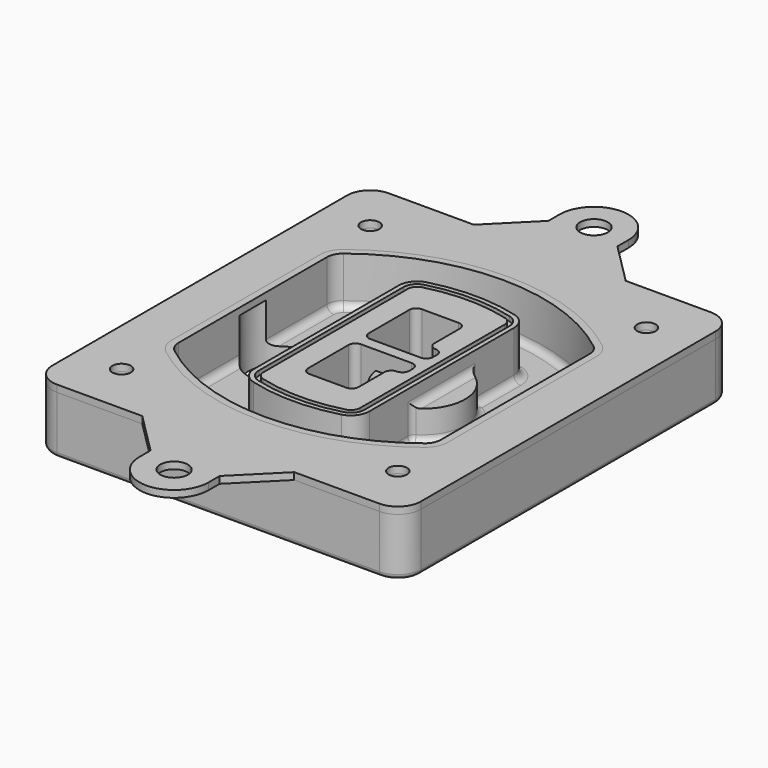
from build123d import *

# Parameters (mm, degrees)
F0_R      = 4
F1_DEPTH  = 25
F2_DEPTH  = 3
F3_DEPTH  = 18
F5_DEPTH  = 21
F6_DEPTH  = 2
F8_DEPTH  = 20
F9_DEPTH  = 16
F10_DEPTH = 25
F7_R      = 6
F7_R_2    = 4
F11_DEPTH = 6
F13_DEPTH = 9
F14_R     = 3
F15_R     = 2
F16_R     = 6
F16_R_2   = 4
F17_DEPTH = 3


with BuildPart() as f1:
    # F0 (on Top) → F1 (new body)
    with BuildSketch(Plane.XY):
        with BuildLine():
            ThreePointArc((-80, -80), (-77.0710678119, -87.0710678119), (-70, -90))
            Line((-70, -90), (70, -90))
            ThreePointArc((70, -90), (77.0710678119, -87.0710678119), (80, -80))
            Line((80, -80), (80, 80))
            ThreePointArc((80, 80), (77.0710678119, 87.0710678119), (70, 90))
            Line((70, 90), (-70, 90))
            ThreePointArc((-70, 90), (-77.0710678119, 87.0710678119), (-80, 80))
            Line((-80, 80), (-80, -80))
        make_face()
        with Locations((-60, -67.5)):
            Circle(F0_R, mode=Mode.SUBTRACT)
        with Locations((60, -67.5)):
            Circle(F0_R, mode=Mode.SUBTRACT)
        with Locations((-60, 67.5)):
            Circle(F0_R, mode=Mode.SUBTRACT)
        with BuildLine():
            ThreePointArc((-64, 40.2934422872), (-62.5820384798, 46.4328484224), (-58.6153846154, 51.3286200352))
            ThreePointArc((-58.6153846154, 51.3286200352), (0, 71.5), (58.6153846154, 51.3286200352))
            ThreePointArc((58.6153846154, 51.3286200352), (62.5820384798, 46.4328484224), (64, 40.2934422872))
            Line((64, 40.2934422872), (64, -40.2934422872))
            ThreePointArc((64, -40.2934422872), (62.5820384798, -46.4328484224), (58.6153846154, -51.3286200352))
            ThreePointArc((58.6153846154, -51.3286200352), (0, -71.5), (-58.6153846154, -51.3286200352))
            ThreePointArc((-58.6153846154, -51.3286200352), (-62.5820384798, -46.4328484224), (-64, -40.2934422872))
            Line((-64, -40.2934422872), (-64, 40.2934422872))
        make_face(mode=Mode.SUBTRACT)
        with Locations((60, 67.5)):
            Circle(F0_R, mode=Mode.SUBTRACT)
        with BuildLine():
            ThreePointArc((58.6153846154, 51.3286200352), (0, 71.5), (-58.6153846154, 51.3286200352))
            ThreePointArc((-58.6153846154, 51.3286200352), (-62.5820384798, 46.4328484224), (-64, 40.2934422872))
            Line((-64, 40.2934422872), (-64, -40.2934422872))
            ThreePointArc((-64, -40.2934422872), (-62.5820384798, -46.4328484224), (-58.6153846154, -51.3286200352))
            ThreePointArc((-58.6153846154, -51.3286200352), (0, -71.5), (58.6153846154, -51.3286200352))
            ThreePointArc((58.6153846154, -51.3286200352), (62.5820384798, -46.4328484224), (64, -40.2934422872))
            Line((64, -40.2934422872), (64, 40.2934422872))
            ThreePointArc((64, 40.2934422872), (62.5820384798, 46.4328484224), (58.6153846154, 51.3286200352))
        make_face()
        with BuildLine():
            Line((-60, -40.2934422872), (-60, 40.2934422872))
            ThreePointArc((-60, 40.2934422872), (-58.9871703427, 44.6787323838), (-56.1538461538, 48.1757121072))
            ThreePointArc((-56.1538461538, 48.1757121072), (0, 67.5), (56.1538461538, 48.1757121072))
            ThreePointArc((56.1538461538, 48.1757121072), (58.9871703427, 44.6787323838), (60, 40.2934422872))
            Line((60, 40.2934422872), (60, -40.2934422872))
            ThreePointArc((60, -40.2934422872), (58.9871703427, -44.6787323838), (56.1538461538, -48.1757121072))
            ThreePointArc((56.1538461538, -48.1757121072), (0, -67.5), (-56.1538461538, -48.1757121072))
            ThreePointArc((-56.1538461538, -48.1757121072), (-58.9871703427, -44.6787323838), (-60, -40.2934422872))
        make_face(mode=Mode.SUBTRACT)
        with BuildLine():
            ThreePointArc((-56.1538461538, 48.1757121072), (-58.9871703427, 44.6787323838), (-60, 40.2934422872))
            Line((-60, 40.2934422872), (-60, -40.2934422872))
            ThreePointArc((-60, -40.2934422872), (-58.9871703427, -44.6787323838), (-56.1538461538, -48.1757121072))
            ThreePointArc((-56.1538461538, -48.1757121072), (0, -67.5), (56.1538461538, -48.1757121072))
            ThreePointArc((56.1538461538, -48.1757121072), (58.9871703427, -44.6787323838), (60, -40.2934422872))
            Line((60, -40.2934422872), (60, 40.2934422872))
            ThreePointArc((60, 40.2934422872), (58.9871703427, 44.6787323838), (56.1538461538, 48.1757121072))
            ThreePointArc((56.1538461538, 48.1757121072), (0, 67.5), (-56.1538461538, 48.1757121072))
        make_face()
        with BuildLine():
            ThreePointArc((54.3076923077, 45.8110311612), (56.2910192399, 43.3631453548), (57, 40.2934422872))
            Line((57, 40.2934422872), (57, -40.2934422872))
            ThreePointArc((57, -40.2934422872), (56.2910192399, -43.3631453548), (54.3076923077, -45.8110311612))
            ThreePointArc((54.3076923077, -45.8110311612), (0, -64.5), (-54.3076923077, -45.8110311612))
            ThreePointArc((-54.3076923077, -45.8110311612), (-56.2910192399, -43.3631453548), (-57, -40.2934422872))
            Line((-57, -40.2934422872), (-57, 40.2934422872))
            ThreePointArc((-57, 40.2934422872), (-56.2910192399, 43.3631453548), (-54.3076923077, 45.8110311612))
            ThreePointArc((-54.3076923077, 45.8110311612), (0, 64.5), (54.3076923077, 45.8110311612))
        make_face(mode=Mode.SUBTRACT)
        with BuildLine():
            Line((57, -40.2934422872), (57, 40.2934422872))
            ThreePointArc((57, 40.2934422872), (56.2910192399, 43.3631453548), (54.3076923077, 45.8110311612))
            ThreePointArc((54.3076923077, 45.8110311612), (0, 64.5), (-54.3076923077, 45.8110311612))
            ThreePointArc((-54.3076923077, 45.8110311612), (-56.2910192399, 43.3631453548), (-57, 40.2934422872))
            Line((-57, 40.2934422872), (-57, -40.2934422872))
            ThreePointArc((-57, -40.2934422872), (-56.2910192399, -43.3631453548), (-54.3076923077, -45.8110311612))
            ThreePointArc((-54.3076923077, -45.8110311612), (0, -64.5), (54.3076923077, -45.8110311612))
            ThreePointArc((54.3076923077, -45.8110311612), (56.2910192399, -43.3631453548), (57, -40.2934422872))
        make_face()
    extrude(amount=-F1_DEPTH)

    # F0 (on Top) → F2 (join)
    with BuildSketch(Plane.XY):
        with BuildLine():
            ThreePointArc((-56.1538461538, 48.1757121072), (-58.9871703427, 44.6787323838), (-60, 40.2934422872))
            Line((-60, 40.2934422872), (-60, -40.2934422872))
            ThreePointArc((-60, -40.2934422872), (-58.9871703427, -44.6787323838), (-56.1538461538, -48.1757121072))
            ThreePointArc((-56.1538461538, -48.1757121072), (0, -67.5), (56.1538461538, -48.1757121072))
            ThreePointArc((56.1538461538, -48.1757121072), (58.9871703427, -44.6787323838), (60, -40.2934422872))
            Line((60, -40.2934422872), (60, 40.2934422872))
            ThreePointArc((60, 40.2934422872), (58.9871703427, 44.6787323838), (56.1538461538, 48.1757121072))
            ThreePointArc((56.1538461538, 48.1757121072), (0, 67.5), (-56.1538461538, 48.1757121072))
        make_face()
        with BuildLine():
            ThreePointArc((54.3076923077, 45.8110311612), (56.2910192399, 43.3631453548), (57, 40.2934422872))
            Line((57, 40.2934422872), (57, -40.2934422872))
            ThreePointArc((57, -40.2934422872), (56.2910192399, -43.3631453548), (54.3076923077, -45.8110311612))
            ThreePointArc((54.3076923077, -45.8110311612), (0, -64.5), (-54.3076923077, -45.8110311612))
            ThreePointArc((-54.3076923077, -45.8110311612), (-56.2910192399, -43.3631453548), (-57, -40.2934422872))
            Line((-57, -40.2934422872), (-57, 40.2934422872))
            ThreePointArc((-57, 40.2934422872), (-56.2910192399, 43.3631453548), (-54.3076923077, 45.8110311612))
            ThreePointArc((-54.3076923077, 45.8110311612), (0, 64.5), (54.3076923077, 45.8110311612))
        make_face(mode=Mode.SUBTRACT)
    extrude(amount=F2_DEPTH)

    # F0 (on Top) → F3 (cut)
    with BuildSketch(Plane.XY):
        with BuildLine():
            Line((57, -40.2934422872), (57, 40.2934422872))
            ThreePointArc((57, 40.2934422872), (56.2910192399, 43.3631453548), (54.3076923077, 45.8110311612))
            ThreePointArc((54.3076923077, 45.8110311612), (0, 64.5), (-54.3076923077, 45.8110311612))
            ThreePointArc((-54.3076923077, 45.8110311612), (-56.2910192399, 43.3631453548), (-57, 40.2934422872))
            Line((-57, 40.2934422872), (-57, -40.2934422872))
            ThreePointArc((-57, -40.2934422872), (-56.2910192399, -43.3631453548), (-54.3076923077, -45.8110311612))
            ThreePointArc((-54.3076923077, -45.8110311612), (0, -64.5), (54.3076923077, -45.8110311612))
            ThreePointArc((54.3076923077, -45.8110311612), (56.2910192399, -43.3631453548), (57, -40.2934422872))
        make_face()
    extrude(amount=-F3_DEPTH, mode=Mode.SUBTRACT)

    # F4 (on face) → F5 (join, through all)
    with BuildSketch(Plane.XY.offset(3)):
        with BuildLine():
            ThreePointArc((-25, -39.2465276821), (-23.3511545998, -44.1109737193), (-19.0842911877, -46.9702398883))
            ThreePointArc((-19.0842911877, -46.9702398883), (0, -49.5), (19.0842911877, -46.9702398883))
            ThreePointArc((19.0842911877, -46.9702398883), (23.3511545998, -44.1109737193), (25, -39.2465276821))
            Line((25, -39.2465276821), (25, 39.2465276821))
            ThreePointArc((25, 39.2465276821), (23.3511545998, 44.1109737193), (19.0842911877, 46.9702398883))
            ThreePointArc((19.0842911877, 46.9702398883), (0, 49.5), (-19.0842911877, 46.9702398883))
            ThreePointArc((-19.0842911877, 46.9702398883), (-23.3511545998, 44.1109737193), (-25, 39.2465276821))
            Line((-25, 39.2465276821), (-25, -39.2465276821))
        make_face()
        with BuildLine():
            ThreePointArc((18.5632183908, 45.0393118368), (21.7633659499, 42.89486221), (23, 39.2465276821))
            Line((23, 39.2465276821), (23, -39.2465276821))
            ThreePointArc((23, -39.2465276821), (21.7633659499, -42.89486221), (18.5632183908, -45.0393118368))
            ThreePointArc((18.5632183908, -45.0393118368), (0, -47.5), (-18.5632183908, -45.0393118368))
            ThreePointArc((-18.5632183908, -45.0393118368), (-21.7633659499, -42.89486221), (-23, -39.2465276821))
            Line((-23, -39.2465276821), (-23, 39.2465276821))
            ThreePointArc((-23, 39.2465276821), (-21.7633659499, 42.89486221), (-18.5632183908, 45.0393118368))
            ThreePointArc((-18.5632183908, 45.0393118368), (0, 47.5), (18.5632183908, 45.0393118368))
        make_face(mode=Mode.SUBTRACT)
        with BuildLine():
            Line((23, -39.2465276821), (23, 39.2465276821))
            ThreePointArc((23, 39.2465276821), (21.7633659499, 42.89486221), (18.5632183908, 45.0393118368))
            ThreePointArc((18.5632183908, 45.0393118368), (0, 47.5), (-18.5632183908, 45.0393118368))
            ThreePointArc((-18.5632183908, 45.0393118368), (-21.7633659499, 42.89486221), (-23, 39.2465276821))
            Line((-23, 39.2465276821), (-23, -39.2465276821))
            ThreePointArc((-23, -39.2465276821), (-21.7633659499, -42.89486221), (-18.5632183908, -45.0393118368))
            ThreePointArc((-18.5632183908, -45.0393118368), (0, -47.5), (18.5632183908, -45.0393118368))
            ThreePointArc((18.5632183908, -45.0393118368), (21.7633659499, -42.89486221), (23, -39.2465276821))
        make_face()
        with BuildLine():
            ThreePointArc((18.0421455939, 43.1083837852), (20.1755772999, 41.6787507007), (21, 39.2465276821))
            Line((21, 39.2465276821), (21, -39.2465276821))
            ThreePointArc((21, -39.2465276821), (20.1755772999, -41.6787507007), (18.0421455939, -43.1083837852))
            ThreePointArc((18.0421455939, -43.1083837852), (0, -45.5), (-18.0421455939, -43.1083837852))
            ThreePointArc((-18.0421455939, -43.1083837852), (-20.1755772999, -41.6787507007), (-21, -39.2465276821))
            Line((-21, -39.2465276821), (-21, 39.2465276821))
            ThreePointArc((-21, 39.2465276821), (-20.1755772999, 41.6787507007), (-18.0421455939, 43.1083837852))
            ThreePointArc((-18.0421455939, 43.1083837852), (0, 45.5), (18.0421455939, 43.1083837852))
        make_face(mode=Mode.SUBTRACT)
        with BuildLine():
            Line((21, -39.2465276821), (21, 39.2465276821))
            ThreePointArc((21, 39.2465276821), (20.1755772999, 41.6787507007), (18.0421455939, 43.1083837852))
            ThreePointArc((18.0421455939, 43.1083837852), (0, 45.5), (-18.0421455939, 43.1083837852))
            ThreePointArc((-18.0421455939, 43.1083837852), (-20.1755772999, 41.6787507007), (-21, 39.2465276821))
            Line((-21, 39.2465276821), (-21, -39.2465276821))
            ThreePointArc((-21, -39.2465276821), (-20.1755772999, -41.6787507007), (-18.0421455939, -43.1083837852))
            ThreePointArc((-18.0421455939, -43.1083837852), (0, -45.5), (18.0421455939, -43.1083837852))
            ThreePointArc((18.0421455939, -43.1083837852), (20.1755772999, -41.6787507007), (21, -39.2465276821))
        make_face()
        with BuildLine():
            Line((-8, -2.5), (14, -2.5))
            ThreePointArc((14, -2.5), (16.1213203436, -3.3786796564), (17, -5.5))
            Line((17, -5.5), (17, -7.5))
            ThreePointArc((17, -7.5), (16.1213203436, -9.6213203436), (14, -10.5))
            ThreePointArc((14, -10.5), (11.8786796564, -11.3786796564), (11, -13.5))
            Line((11, -13.5), (11, -27.5))
            ThreePointArc((11, -27.5), (10.1213203436, -29.6213203436), (8, -30.5))
            Line((8, -30.5), (-8, -30.5))
            ThreePointArc((-8, -30.5), (-10.1213203436, -29.6213203436), (-11, -27.5))
            Line((-11, -27.5), (-11, -5.5))
            ThreePointArc((-11, -5.5), (-10.1213203436, -3.3786796564), (-8, -2.5))
        make_face(mode=Mode.SUBTRACT)
        with BuildLine():
            ThreePointArc((-8, 2.5), (-10.1213203436, 3.3786796564), (-11, 5.5))
            Line((-11, 5.5), (-11, 27.5))
            ThreePointArc((-11, 27.5), (-10.1213203436, 29.6213203436), (-8, 30.5))
            Line((-8, 30.5), (8, 30.5))
            ThreePointArc((8, 30.5), (10.1213203436, 29.6213203436), (11, 27.5))
            Line((11, 27.5), (11, 13.5))
            ThreePointArc((11, 13.5), (11.8786796564, 11.3786796564), (14, 10.5))
            ThreePointArc((14, 10.5), (16.1213203436, 9.6213203436), (17, 7.5))
            Line((17, 7.5), (17, 5.5))
            ThreePointArc((17, 5.5), (16.1213203436, 3.3786796564), (14, 2.5))
            Line((14, 2.5), (-8, 2.5))
        make_face(mode=Mode.SUBTRACT)
    extrude(amount=-F5_DEPTH)

    # F4 (on face) → F6 (cut)
    with BuildSketch(Plane.XY.offset(3)):
        with BuildLine():
            Line((23, -39.2465276821), (23, 39.2465276821))
            ThreePointArc((23, 39.2465276821), (21.7633659499, 42.89486221), (18.5632183908, 45.0393118368))
            ThreePointArc((18.5632183908, 45.0393118368), (0, 47.5), (-18.5632183908, 45.0393118368))
            ThreePointArc((-18.5632183908, 45.0393118368), (-21.7633659499, 42.89486221), (-23, 39.2465276821))
            Line((-23, 39.2465276821), (-23, -39.2465276821))
            ThreePointArc((-23, -39.2465276821), (-21.7633659499, -42.89486221), (-18.5632183908, -45.0393118368))
            ThreePointArc((-18.5632183908, -45.0393118368), (0, -47.5), (18.5632183908, -45.0393118368))
            ThreePointArc((18.5632183908, -45.0393118368), (21.7633659499, -42.89486221), (23, -39.2465276821))
        make_face()
        with BuildLine():
            ThreePointArc((18.0421455939, 43.1083837852), (20.1755772999, 41.6787507007), (21, 39.2465276821))
            Line((21, 39.2465276821), (21, -39.2465276821))
            ThreePointArc((21, -39.2465276821), (20.1755772999, -41.6787507007), (18.0421455939, -43.1083837852))
            ThreePointArc((18.0421455939, -43.1083837852), (0, -45.5), (-18.0421455939, -43.1083837852))
            ThreePointArc((-18.0421455939, -43.1083837852), (-20.1755772999, -41.6787507007), (-21, -39.2465276821))
            Line((-21, -39.2465276821), (-21, 39.2465276821))
            ThreePointArc((-21, 39.2465276821), (-20.1755772999, 41.6787507007), (-18.0421455939, 43.1083837852))
            ThreePointArc((-18.0421455939, 43.1083837852), (0, 45.5), (18.0421455939, 43.1083837852))
        make_face(mode=Mode.SUBTRACT)
    extrude(amount=-F6_DEPTH, mode=Mode.SUBTRACT)

    # F7 (on face) → F8 (join)
    with BuildSketch(Plane(origin=(0, 0, -25), x_dir=(1, 0, 0), z_dir=(0, 0, -1))):
        with BuildLine():
            ThreePointArc((3.28842436, 0), (16.7567035675, 13.4682792075), (30.224982775, 0))
            Line((30.224982775, 0), (35.224982775, 0))
            ThreePointArc((35.224982775, 0), (16.7567035675, 18.4682792075), (-1.71157564, 0))
            Line((-1.71157564, 0), (3.28842436, 0))
        make_face()
        with BuildLine():
            Line((3.28842436, 0), (30.224982775, 0))
            ThreePointArc((30.224982775, 0), (16.7567035675, 13.4682792075), (3.28842436, 0))
        make_face()
        with BuildLine():
            ThreePointArc((3.28842436, 0), (16.7567035675, -13.4682792075), (30.224982775, 0))
            Line((30.224982775, 0), (3.28842436, 0))
        make_face()
        with BuildLine():
            Line((35.224982775, 0), (30.224982775, 0))
            ThreePointArc((30.224982775, 0), (16.7567035675, -13.4682792075), (3.28842436, 0))
            Line((3.28842436, 0), (-1.71157564, 0))
            ThreePointArc((-1.71157564, 0), (16.7567035675, -18.4682792075), (35.224982775, 0))
        make_face()
    extrude(amount=-F8_DEPTH)

    # F7 (on face) → F9 (cut)
    with BuildSketch(Plane(origin=(0, 0, -25), x_dir=(1, 0, 0), z_dir=(0, 0, -1))):
        with BuildLine():
            Line((3.28842436, 0), (30.224982775, 0))
            ThreePointArc((30.224982775, 0), (16.7567035675, 13.4682792075), (3.28842436, 0))
        make_face()
        with BuildLine():
            ThreePointArc((3.28842436, 0), (16.7567035675, -13.4682792075), (30.224982775, 0))
            Line((30.224982775, 0), (3.28842436, 0))
        make_face()
    extrude(amount=-F9_DEPTH, mode=Mode.SUBTRACT)

    # F7 (on face) → F10 (cut)
    with BuildSketch(Plane(origin=(0, 0, -25), x_dir=(1, 0, 0), z_dir=(0, 0, -1))):
        with BuildLine():
            Line((-59.0318229325, 0), (-32.0952645175, 0))
            ThreePointArc((-32.0952645175, 0), (-45.563543725, 13.4682792075), (-59.0318229325, 0))
        make_face()
        with BuildLine():
            ThreePointArc((-59.0318229325, 0), (-45.563543725, -13.4682792075), (-32.0952645175, 0))
            Line((-32.0952645175, 0), (-59.0318229325, 0))
        make_face()
    extrude(amount=-F10_DEPTH, mode=Mode.SUBTRACT)

    # F7 (on face) → F11 (cut)
    with BuildSketch(Plane(origin=(0, 0, -25), x_dir=(1, 0, 0), z_dir=(0, 0, -1))):
        with Locations((60, -67.5)):
            Circle(F7_R)
        with Locations((60, -67.5)):
            Circle(F7_R_2, mode=Mode.SUBTRACT)
        with Locations((60, -67.5)):
            Circle(F7_R)
        with Locations((60, -67.5)):
            Circle(F7_R_2, mode=Mode.SUBTRACT)
        with Locations((-60, -67.5)):
            Circle(F7_R)
        with Locations((-60, -67.5)):
            Circle(F7_R_2, mode=Mode.SUBTRACT)
        with Locations((-60, -67.5)):
            Circle(F7_R)
        with Locations((-60, -67.5)):
            Circle(F7_R_2, mode=Mode.SUBTRACT)
        with Locations((-60, 67.5)):
            Circle(F7_R)
        with Locations((-60, 67.5)):
            Circle(F7_R_2, mode=Mode.SUBTRACT)
        with Locations((-60, 67.5)):
            Circle(F7_R)
        with Locations((-60, 67.5)):
            Circle(F7_R_2, mode=Mode.SUBTRACT)
        with Locations((60, 67.5)):
            Circle(F7_R)
        with Locations((60, 67.5)):
            Circle(F7_R_2, mode=Mode.SUBTRACT)
        with Locations((60, 67.5)):
            Circle(F7_R)
        with Locations((60, 67.5)):
            Circle(F7_R_2, mode=Mode.SUBTRACT)
    extrude(amount=-F11_DEPTH, mode=Mode.SUBTRACT)

    # F12 (on face) → F13 (cut, through all)
    with BuildSketch(Plane(origin=(0, 0, -9), x_dir=(1, 0, 0), z_dir=(0, 0, -1))):
        with BuildLine():
            Line((11, 13.5), (11, 17.5481537753))
            ThreePointArc((11, 17.5481537753), (2.5696536419, 11.8239143813), (-1.5415842455, 2.5))
            Line((-1.5415842455, 2.5), (3.5224848595, 2.5))
            ThreePointArc((3.5224848595, 2.5), (6.1857188154, 8.3455872281), (11.2536447004, 12.2927168648))
            ThreePointArc((11.2536447004, 12.2927168648), (11.0640958889, 12.8831798879), (11, 13.5))
        make_face()
        with BuildLine():
            ThreePointArc((11.2536447004, -12.2927168648), (6.1857188154, -8.3455872281), (3.5224848595, -2.5))
            Line((3.5224848595, -2.5), (-1.5415842455, -2.5))
            ThreePointArc((-1.5415842455, -2.5), (2.5696536419, -11.8239143813), (11, -17.5481537753))
            Line((11, -17.5481537753), (11, -13.5))
            ThreePointArc((11, -13.5), (11.0640958889, -12.8831798879), (11.2536447004, -12.2927168648))
        make_face()
        with BuildLine():
            ThreePointArc((11.2536447004, 12.2927168648), (6.1857188154, 8.3455872281), (3.5224848595, 2.5))
            Line((3.5224848595, 2.5), (14, 2.5))
            ThreePointArc((14, 2.5), (16.1213203436, 3.3786796564), (17, 5.5))
            Line((17, 5.5), (17, 7.5))
            ThreePointArc((17, 7.5), (16.1213203436, 9.6213203436), (14, 10.5))
            ThreePointArc((14, 10.5), (12.3601599782, 10.9878446101), (11.2536447004, 12.2927168648))
        make_face()
        with BuildLine():
            Line((14, -2.5), (3.5224848595, -2.5))
            ThreePointArc((3.5224848595, -2.5), (6.1857188154, -8.3455872281), (11.2536447004, -12.2927168648))
            ThreePointArc((11.2536447004, -12.2927168648), (12.3601599782, -10.9878446101), (14, -10.5))
            ThreePointArc((14, -10.5), (16.1213203436, -9.6213203436), (17, -7.5))
            Line((17, -7.5), (17, -5.5))
            ThreePointArc((17, -5.5), (16.1213203436, -3.3786796564), (14, -2.5))
        make_face()
    extrude(amount=F13_DEPTH, mode=Mode.SUBTRACT)

    # F14
    f14_edges = [f1.edges().sort_by_distance(p)[0] for p in [
        (-57, -23.703476, -18),
        (-57, 23.703476, -18),
        (25, 0, -5),
        (25, 16.526506, -11.5),
        (25, -16.526506, -11.5),
        (25, -27.886517, -18),
        (35.224983, 0, -18),
    ]]
    fillet(f14_edges, radius=F14_R)

    # F15
    f15_edges = [f1.edges().sort_by_distance(p)[0] for p in [
        (0, -90, -25),
    ]]
    fillet(f15_edges, radius=F15_R)


with BuildPart() as f17:
    # F16 (on face) → F17 (new body, through all)
    with BuildSketch(Plane.XY):
        with BuildLine():
            Line((-15, 108), (-33, 90))
            Line((-33, 90), (33, 90))
            Line((33, 90), (15, 108))
            Line((15, 108), (15, 114))
            ThreePointArc((15, 114), (0, 129), (-15, 114))
            Line((-15, 114), (-15, 108))
        make_face()
        with Locations((0, 114)):
            Circle(F16_R, mode=Mode.SUBTRACT)
        with BuildLine():
            Line((-33, 90), (-70, 90))
            ThreePointArc((-70, 90), (-77.0710678119, 87.0710678119), (-80, 80))
            Line((-80, 80), (-80, -80))
            ThreePointArc((-80, -80), (-77.0710678119, -87.0710678119), (-70, -90))
            Line((-70, -90), (-33, -90))
            Line((-33, -90), (33, -90))
            Line((33, -90), (70, -90))
            ThreePointArc((70, -90), (77.0710678119, -87.0710678119), (80, -80))
            Line((80, -80), (80, 80))
            ThreePointArc((80, 80), (77.0710678119, 87.0710678119), (70, 90))
            Line((70, 90), (33, 90))
            Line((33, 90), (-33, 90))
        make_face()
        with Locations((-60, -67.5)):
            Circle(F16_R_2, mode=Mode.SUBTRACT)
        with Locations((60, -67.5)):
            Circle(F16_R_2, mode=Mode.SUBTRACT)
        with Locations((-60, 67.5)):
            Circle(F16_R_2, mode=Mode.SUBTRACT)
        with BuildLine():
            ThreePointArc((56.1538461538, 48.1757121072), (58.9871703427, 44.6787323838), (60, 40.2934422872))
            Line((60, 40.2934422872), (60, -40.2934422872))
            ThreePointArc((60, -40.2934422872), (58.9871703427, -44.6787323838), (56.1538461538, -48.1757121072))
            ThreePointArc((56.1538461538, -48.1757121072), (0, -67.5), (-56.1538461538, -48.1757121072))
            ThreePointArc((-56.1538461538, -48.1757121072), (-58.9871703427, -44.6787323838), (-60, -40.2934422872))
            Line((-60, -40.2934422872), (-60, 40.2934422872))
            ThreePointArc((-60, 40.2934422872), (-58.9871703427, 44.6787323838), (-56.1538461538, 48.1757121072))
            ThreePointArc((-56.1538461538, 48.1757121072), (0, 67.5), (56.1538461538, 48.1757121072))
        make_face(mode=Mode.SUBTRACT)
        with Locations((60, 67.5)):
            Circle(F16_R_2, mode=Mode.SUBTRACT)
        with BuildLine():
            Line((33, -90), (-33, -90))
            Line((-33, -90), (-15, -108))
            Line((-15, -108), (-15, -114))
            ThreePointArc((-15, -114), (0, -129), (15, -114))
            Line((15, -114), (15, -108))
            Line((15, -108), (33, -90))
        make_face()
        with Locations((0, -114)):
            Circle(F16_R, mode=Mode.SUBTRACT)
    extrude(amount=F17_DEPTH)


solid = Compound([f1.part, f17.part])
